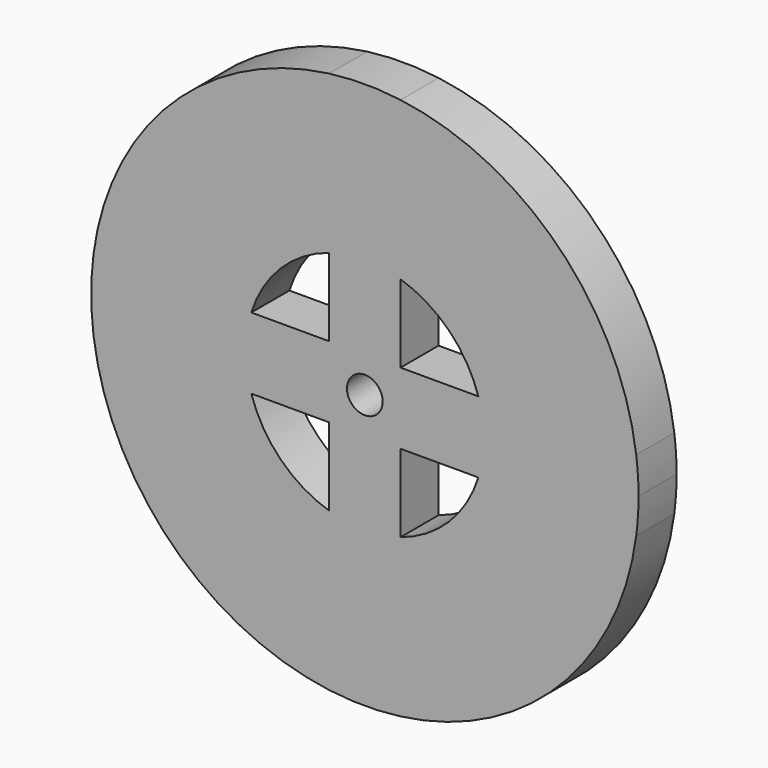
from build123d import *

# Parameters (mm, degrees)
F0_W     = 19.05
F0_H     = 19.05
F0_R     = 4.7625
F1_DEPTH = 12.7


with BuildPart() as f1:
    # F0 (on Front) → F1 (new body)
    with BuildSketch(Plane.XZ):
        with BuildLine():
            ThreePointArc((72.4011394938, -9.525), (72.8688679634, -4.7727043416), (73.025, 0))
            ThreePointArc((73.025, 0), (72.8688679634, 4.7727043416), (72.4011394938, 9.525))
            Line((72.4011394938, 9.525), (30.287569645, 9.525))
            ThreePointArc((30.287569645, 9.525), (31.3822627947, 4.8183069522), (31.75, 0))
            ThreePointArc((31.75, 0), (31.3822627947, -4.8183069522), (30.287569645, -9.525))
            Line((30.287569645, -9.525), (72.4011394938, -9.525))
        make_face()
        with BuildLine():
            Line((30.287569645, 9.525), (72.4011394938, 9.525))
            ThreePointArc((72.4011394938, 9.525), (51.6364726961, 51.6364726961), (9.525, 72.4011394938))
            Line((9.525, 72.4011394938), (9.525, 30.287569645))
            ThreePointArc((9.525, 30.287569645), (22.4506403027, 22.4506403027), (30.287569645, 9.525))
        make_face()
        with BuildLine():
            ThreePointArc((9.525, -72.4011394938), (51.6364726961, -51.6364726961), (72.4011394938, -9.525))
            Line((72.4011394938, -9.525), (30.287569645, -9.525))
            ThreePointArc((30.287569645, -9.525), (22.4506403027, -22.4506403027), (9.525, -30.287569645))
            Line((9.525, -30.287569645), (9.525, -72.4011394938))
        make_face()
        with BuildLine():
            Line((9.525, 30.287569645), (9.525, 72.4011394938))
            ThreePointArc((9.525, 72.4011394938), (0, 73.025), (-9.525, 72.4011394938))
            Line((-9.525, 72.4011394938), (-9.525, 30.287569645))
            ThreePointArc((-9.525, 30.287569645), (0, 31.75), (9.525, 30.287569645))
        make_face()
        with BuildLine():
            ThreePointArc((-9.525, -72.4011394938), (0, -73.025), (9.525, -72.4011394938))
            Line((9.525, -72.4011394938), (9.525, -30.287569645))
            ThreePointArc((9.525, -30.287569645), (0, -31.75), (-9.525, -30.287569645))
            Line((-9.525, -30.287569645), (-9.525, -72.4011394938))
        make_face()
        with BuildLine():
            Line((-9.525, 30.287569645), (-9.525, 72.4011394938))
            ThreePointArc((-9.525, 72.4011394938), (-51.6364726961, 51.6364726961), (-72.4011394938, 9.525))
            Line((-72.4011394938, 9.525), (-30.287569645, 9.525))
            ThreePointArc((-30.287569645, 9.525), (-22.4506403027, 22.4506403027), (-9.525, 30.287569645))
        make_face()
        with BuildLine():
            ThreePointArc((-72.4011394938, -9.525), (-51.6364726961, -51.6364726961), (-9.525, -72.4011394938))
            Line((-9.525, -72.4011394938), (-9.525, -30.287569645))
            ThreePointArc((-9.525, -30.287569645), (-22.4506403027, -22.4506403027), (-30.287569645, -9.525))
            Line((-30.287569645, -9.525), (-72.4011394938, -9.525))
        make_face()
        with BuildLine():
            Line((-30.287569645, 9.525), (-72.4011394938, 9.525))
            ThreePointArc((-72.4011394938, 9.525), (-73.025, 0), (-72.4011394938, -9.525))
            Line((-72.4011394938, -9.525), (-30.287569645, -9.525))
            ThreePointArc((-30.287569645, -9.525), (-31.75, 0), (-30.287569645, 9.525))
        make_face()
        with BuildLine():
            ThreePointArc((31.75, 0), (31.3822627947, 4.8183069522), (30.287569645, 9.525))
            Line((30.287569645, 9.525), (9.525, 9.525))
            Line((9.525, 9.525), (9.525, -9.525))
            Line((9.525, -9.525), (30.287569645, -9.525))
            ThreePointArc((30.287569645, -9.525), (31.3822627947, -4.8183069522), (31.75, 0))
        make_face()
        with BuildLine():
            Line((9.525, 9.525), (9.525, 30.287569645))
            ThreePointArc((9.525, 30.287569645), (0, 31.75), (-9.525, 30.287569645))
            Line((-9.525, 30.287569645), (-9.525, 9.525))
            Line((-9.525, 9.525), (9.525, 9.525))
        make_face()
        with BuildLine():
            Line((-9.525, -9.525), (-9.525, 9.525))
            Line((-9.525, 9.525), (-30.287569645, 9.525))
            ThreePointArc((-30.287569645, 9.525), (-31.75, 0), (-30.287569645, -9.525))
            Line((-30.287569645, -9.525), (-9.525, -9.525))
        make_face()
        Rectangle(F0_W, F0_H)
        Circle(F0_R, mode=Mode.SUBTRACT)
        with BuildLine():
            ThreePointArc((-9.525, -30.287569645), (0, -31.75), (9.525, -30.287569645))
            Line((9.525, -30.287569645), (9.525, -9.525))
            Line((9.525, -9.525), (-9.525, -9.525))
            Line((-9.525, -9.525), (-9.525, -30.287569645))
        make_face()
    extrude(amount=F1_DEPTH)


solid = f1.part
